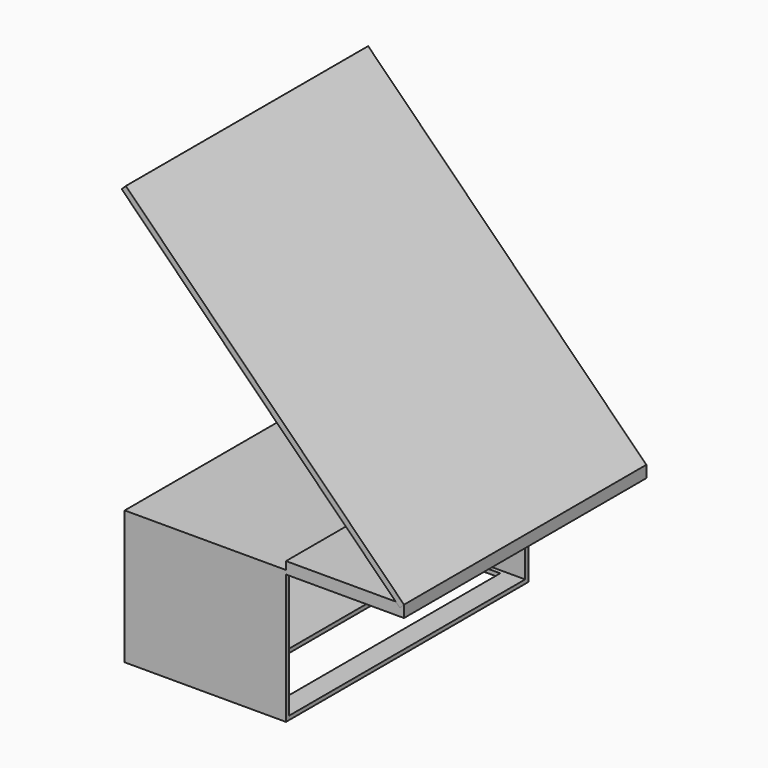
from build123d import *

# Parameters (mm, degrees)
F0_W      = 77
F0_H      = 34
F0_W_2    = 75
F0_H_2    = 32
F1_DEPTH  = 40
F2_W      = 12.5
F2_H      = 68.9219199121
F3_DEPTH  = 1
F4_W      = 77
F4_H      = 34
F4_W_2    = 75
F4_H_2    = 32
F5_DEPTH  = 1
F6_W      = 77
F6_H      = 2
F7_DEPTH  = 30
F8_W      = 1.4904659986
F8_H      = 77
F9_DEPTH  = 100
F10_ANGLE = 45


with BuildPart() as f1:
    # F0 (on Right) → F1 (new body)
    with BuildSketch(Plane.YZ):
        with Locations((-9.2573509268, 2.9255376406)):
            Rectangle(F0_W, F0_H)
        with Locations((-9.2573509268, 2.9255376406)):
            Rectangle(F0_W_2, F0_H_2, mode=Mode.SUBTRACT)
    extrude(amount=F1_DEPTH)

    # F2 (on face) → F3 (cut, through all)
    with BuildSketch(Plane(origin=(0, 0, -14.0744623594), x_dir=(1, 0, 0), z_dir=(0, 0, -1))):
        with Locations((28.25, 7.2659123689)):
            Rectangle(F2_W, F2_H)
    extrude(amount=-F3_DEPTH, mode=Mode.SUBTRACT)

    # F4 (on face) → F5 (join)
    with BuildSketch(Plane(origin=(0, 0, 0), x_dir=(0, -1, 0), z_dir=(-1, 0, 0))):
        with Locations((9.2573509268, 2.9255376406)):
            Rectangle(F4_W, F4_H)
        with Locations((9.2573509268, 2.9255376406)):
            Rectangle(F4_W_2, F4_H_2, mode=Mode.SUBTRACT)
        with Locations((9.2573509268, 2.9255376406)):
            Rectangle(F4_W_2, F4_H_2)
    extrude(amount=F5_DEPTH)

    # F6 (on face) → F7 (join)
    with BuildSketch(Plane.YZ.offset(40)):
        with Locations((-9.2573509268, 20.9255376406)):
            Rectangle(F6_W, F6_H)
        Polygon((29.2426490732, 18.9255376406), (29.2426490732, 19.9255376406), (-47.7573509268, 19.9255376406), (-47.7573509268, 18.9255376406), (-46.7573509268, 18.9255376406), (28.2426490732, 18.9255376406), align=None)
    extrude(amount=F7_DEPTH)


with BuildPart() as f9:
    # F8 (on face) → F9 (new body)
    with BuildSketch(Plane.XY.offset(21.9255376406)):
        with Locations((69.2547670007, -9.2573509268)):
            Rectangle(F8_W, F8_H)
    extrude(amount=F9_DEPTH)


with BuildPart() as f9_1:
    # F10: moved
    add(f9.part.rotate(Axis((70, -9.2573509268, 21.9255376406), (0, -1, 0)), F10_ANGLE))


solid = Compound([f1.part, f9_1.part])
